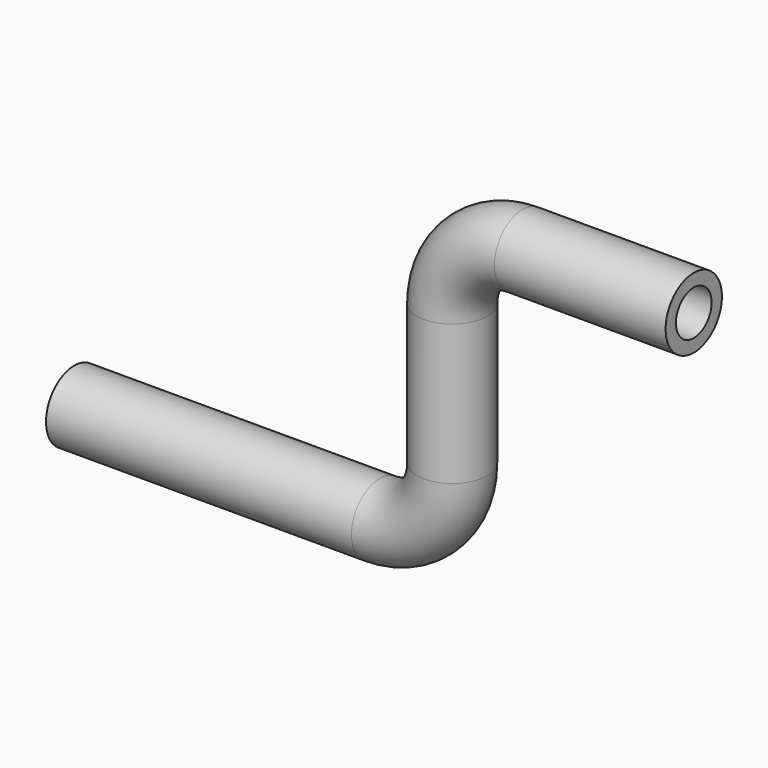
from build123d import *

# Parameters (mm, degrees)
F0_R   = 3.1877
F0_R_2 = 2.0193


with BuildPart() as f2:
    # F2: sweep along a path in F1
    with BuildLine(Plane.XZ) as f2_path:
        Line((0, 0), (27.655674, 0))
        ThreePointArc((27.655674, 0), (32.302863, 1.924929), (34.227792, 6.572118))
        Line((34.227792, 6.572118), (34.227792, 19.272118))
        ThreePointArc((34.227792, 19.272118), (36.092292, 23.773419), (40.593592, 25.637919))
        Line((40.593592, 25.637919), (56.098651, 25.637919))
    # F0 (on Right) → F2 (sweep)
    with BuildSketch(Plane.YZ):
        Circle(F0_R)
        Circle(F0_R_2, mode=Mode.SUBTRACT)
    sweep(path=f2_path.line)


solid = f2.part
